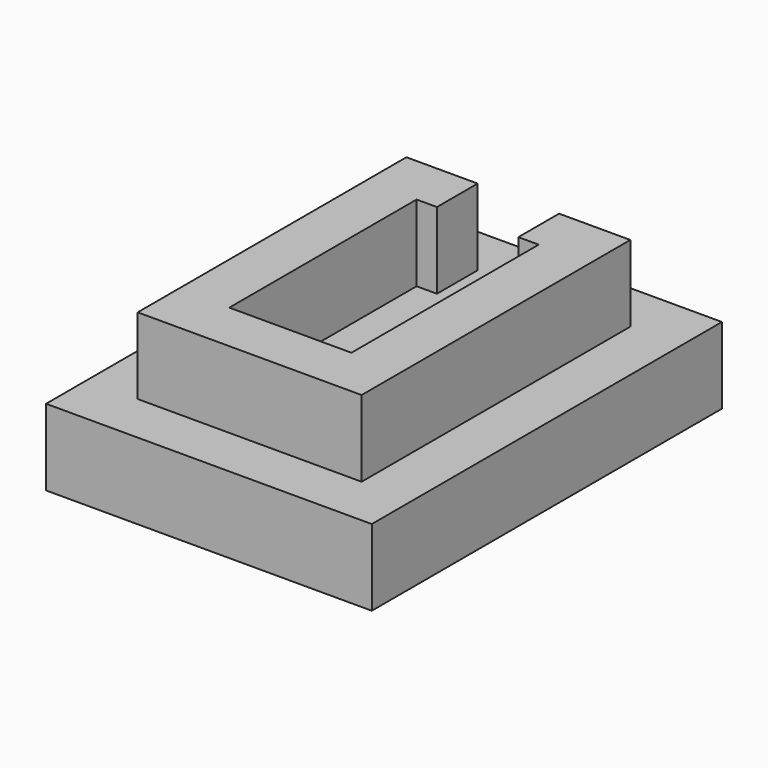
from build123d import *

# Parameters (mm, degrees)
BOX_W        = 8
BOX_H        = 10
BOX_DEPTH    = 7.5
SKETCH001_W  = 32
SKETCH001_H  = 43
PAD001_DEPTH = 7.5
SKETCH_W     = 22
SKETCH_H     = 33
SKETCH_W_2   = 12
SKETCH_H_2   = 23
PAD_DEPTH    = 15


with BuildPart() as cube:
    # Box → Box (new body)
    with BuildSketch(Plane(origin=(-4, 8, 7.5), x_dir=(1, 0, 0), z_dir=(0, 0, 1))):
        with Locations((4, 5)):
            Rectangle(BOX_W, BOX_H)
    extrude(amount=BOX_DEPTH)


with BuildPart() as body001:
    # Sketch001 → Pad001 (new body)
    with BuildSketch(Plane.XY):
        Rectangle(SKETCH001_W, SKETCH001_H)
    extrude(amount=PAD001_DEPTH)


with BuildPart() as cut:
    # Sketch → Pad (new body)
    with BuildSketch(Plane.XY):
        Rectangle(SKETCH_W, SKETCH_H)
        Rectangle(SKETCH_W_2, SKETCH_H_2, mode=Mode.SUBTRACT)
    extrude(amount=PAD_DEPTH)

    # Fusion: union Body001
    add(body001.part)

    # Cut: cut Cube
    add(cube.part, mode=Mode.SUBTRACT)


solid = cut.part
